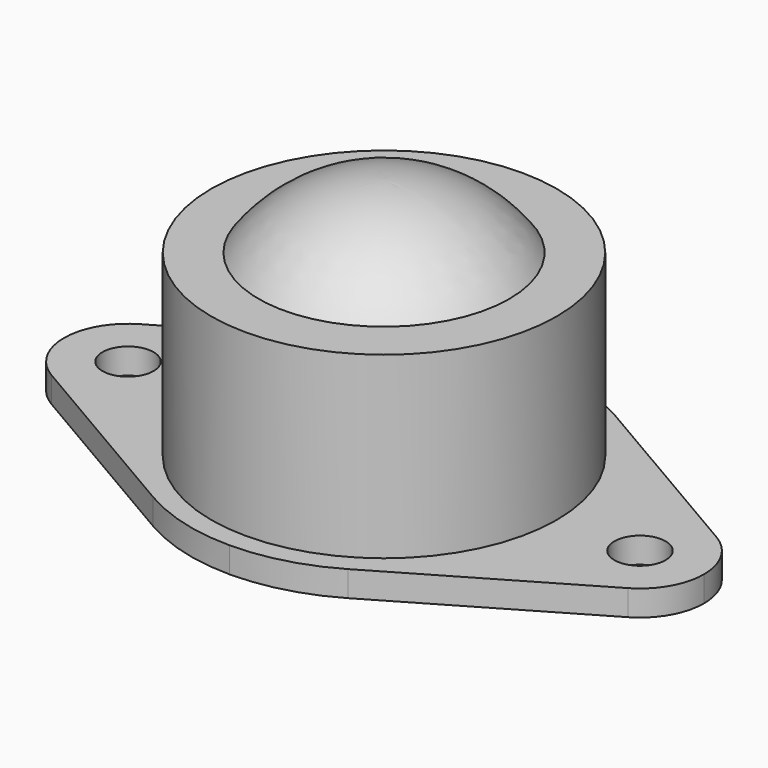
from build123d import *

# Parameters (mm, degrees)
F2_R     = 29.922306
F2_R_2   = 2
F3_DEPTH = 2.001


with BuildPart() as f1:
    # F0 (on Front) → F1 (revolve)
    with BuildSketch(Plane.XZ):
        with BuildLine():
            Line((13.5, 16), (9.798011, 16))
            ThreePointArc((9.798011, 16), (5.500023, 19.677756), (0, 21))
            Line((0, 21), (0, 0))
            Line((0, 0), (25, 0))
            Line((25, 0), (25, 2))
            Line((25, 2), (13.5, 2))
            Line((13.5, 2), (13.5, 16))
        make_face()
    revolve(axis=Axis((0, 0, 10.5), (0, 0, -1)))

    # F2 (on face) → F3 (cut, through all)
    with BuildSketch(Plane.XY.offset(2)):
        Circle(F2_R)
        with BuildLine():
            ThreePointArc((-25, 0), (-24.336437, 2.489038), (-22.521875, 4.317424))
            Line((-22.521875, 4.317424), (-7.609758, 13.027826))
            ThreePointArc((-7.609758, 13.027826), (-3.941785, 14.563481), (0, 15.0875))
            ThreePointArc((0, 15.0875), (3.941785, 14.563481), (7.609758, 13.027826))
            Line((7.609758, 13.027826), (22.521875, 4.317424))
            ThreePointArc((22.521875, 4.317424), (24.336437, 2.489038), (25, 0))
            ThreePointArc((25, 0), (24.336437, -2.489038), (22.521875, -4.317424))
            Line((22.521875, -4.317424), (7.609758, -13.027826))
            ThreePointArc((7.609758, -13.027826), (3.941785, -14.563481), (0, -15.0875))
            ThreePointArc((0, -15.0875), (-3.941785, -14.563481), (-7.609758, -13.027826))
            Line((-7.609758, -13.027826), (-22.521875, -4.317424))
            ThreePointArc((-22.521875, -4.317424), (-24.336437, -2.489038), (-25, 0))
        make_face(mode=Mode.SUBTRACT)
        with Locations((-20, 0)):
            Circle(F2_R_2)
        with Locations((20, 0)):
            Circle(F2_R_2)
    extrude(amount=-F3_DEPTH, mode=Mode.SUBTRACT)


solid = f1.part
